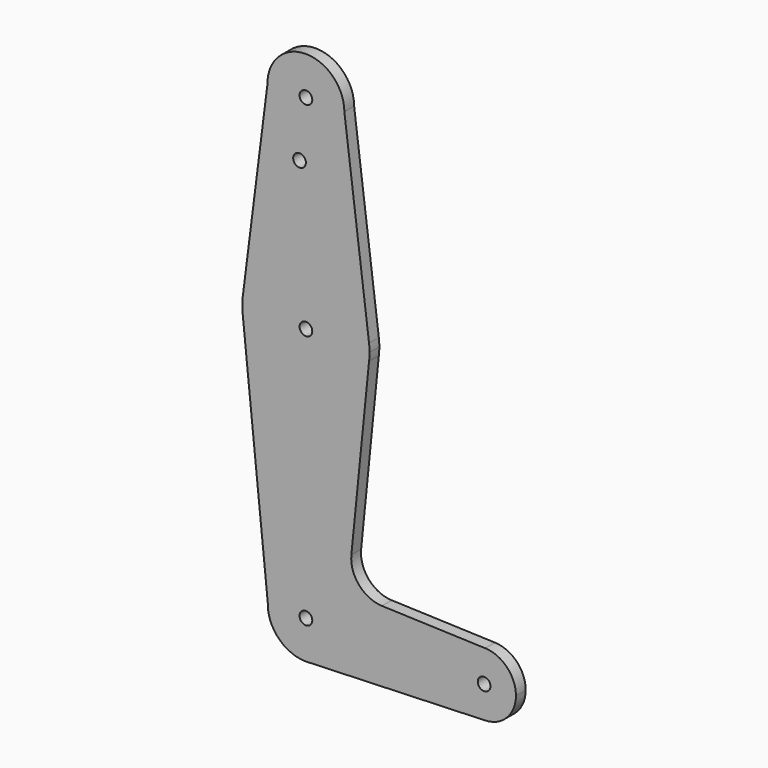
from build123d import *

# Parameters (mm, degrees)
F0_R     = 1.5875
F1_DEPTH = 3.048


with BuildPart() as f1:
    # F0 (on Front) → F1 (new body)
    with BuildSketch(Plane.XZ):
        with BuildLine():
            ThreePointArc((15.750073, -1.987672), (15.843737, -0.995797), (15.875, 0))
            ThreePointArc((15.875, 0), (15.843737, 0.995797), (15.750073, 1.987672))
            ThreePointArc((15.750073, 1.987672), (0.002791, 15.875), (-15.749373, 1.99321))
            ThreePointArc((-15.749373, 1.99321), (-15.873827, 0.192943), (-15.793167, -1.609816))
            ThreePointArc((-15.793167, -1.609816), (-0.190153, -15.873861), (15.750073, -1.987672))
        make_face()
        Circle(F0_R, mode=Mode.SUBTRACT)
        with BuildLine():
            ThreePointArc((-15.749373, 1.99321), (0.002791, 15.875), (15.750073, 1.987672))
            Line((15.750073, 1.987672), (9.589916, 50.8))
            ThreePointArc((9.589916, 50.8), (0.065367, 41.210307), (-9.589025, 50.66927))
            Line((-9.589025, 50.66927), (-15.749373, 1.99321))
        make_face()
        with Locations((-1.5875, 36.490685)):
            Circle(F0_R, mode=Mode.SUBTRACT)
        with BuildLine():
            Line((11.339253, -45.910697), (15.750073, -1.987672))
            ThreePointArc((15.750073, -1.987672), (-0.190153, -15.873861), (-15.793167, -1.609816))
            Line((-15.793167, -1.609816), (-9.519021, -63.16257))
            ThreePointArc((-9.519021, -63.16257), (0.168741, -53.976495), (9.525, -63.5))
            ThreePointArc((9.525, -63.5), (6.970557, -69.991299), (0.677344, -73.000886))
            Line((0.677344, -73.000886), (44.732405, -71.432475))
            ThreePointArc((44.732405, -71.432475), (36.5125, -63.5), (44.732405, -55.567525))
            Line((44.732405, -55.567525), (18.966809, -54.65024))
            ThreePointArc((18.966809, -54.65024), (13.259898, -51.932727), (11.339253, -45.910697))
        make_face()
        with BuildLine():
            ThreePointArc((-9.589025, 50.66927), (0.065367, 41.210307), (9.589916, 50.8))
            ThreePointArc((9.589916, 50.8), (-0.065367, 60.389693), (-9.589025, 50.66927))
        make_face()
        with Locations((0, 50.8)):
            Circle(F0_R, mode=Mode.SUBTRACT)
        with BuildLine():
            ThreePointArc((9.525, -63.5), (0.168741, -53.976495), (-9.519021, -63.16257))
            ThreePointArc((-9.519021, -63.16257), (-6.853453, -70.114817), (0, -73.025))
            Line((0, -73.025), (0.677344, -73.000886))
            ThreePointArc((0.677344, -73.000886), (6.970557, -69.991299), (9.525, -63.5))
        make_face()
        with Locations((0, -63.5)):
            Circle(F0_R, mode=Mode.SUBTRACT)
        with BuildLine():
            Line((0.677344, -73.000886), (0, -73.025))
            ThreePointArc((0, -73.025), (0.338886, -73.01897), (0.677344, -73.000886))
        make_face()
        with BuildLine():
            ThreePointArc((52.3875, -63.5), (50.161633, -57.98809), (44.732405, -55.567525))
            ThreePointArc((44.732405, -55.567525), (36.5125, -63.5), (44.732405, -71.432475))
            ThreePointArc((44.732405, -71.432475), (50.161633, -69.01191), (52.3875, -63.5))
        make_face()
        with Locations((44.45, -63.5)):
            Circle(F0_R, mode=Mode.SUBTRACT)
    extrude(amount=F1_DEPTH)


solid = f1.part
